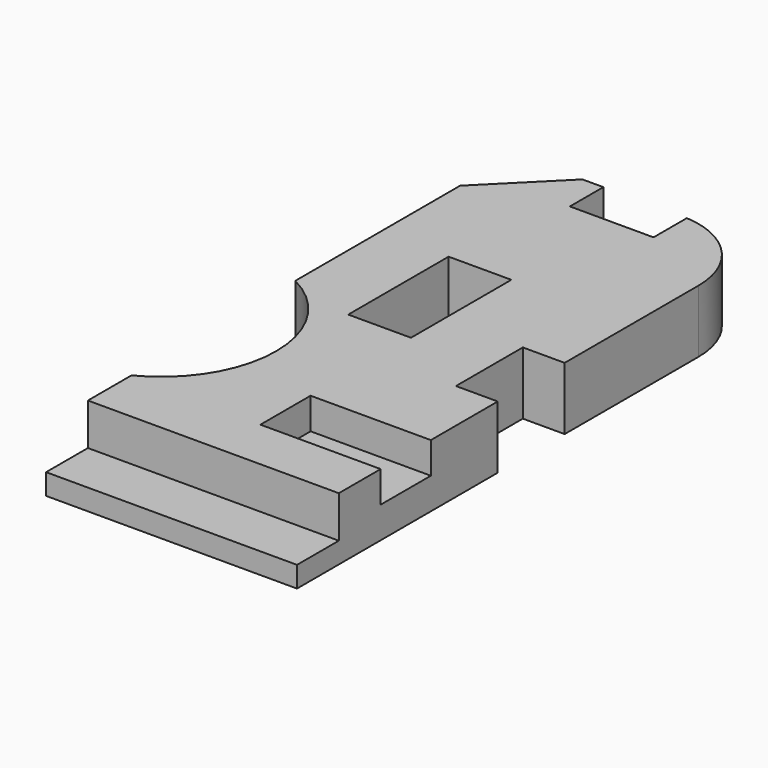
from build123d import *

# Parameters (mm, degrees)
F0_W      = 76.2
F0_H      = 177.8
F1_DEPTH  = 19.05
F2_R      = 25.4
F4_DEPTH  = 25.4
F6_DEPTH  = 25.4
F7_W      = 76.2
F7_H      = 15.875
F8_DEPTH  = 12.7
F9_W      = 36.5125
F9_H      = 19.05
F10_DEPTH = 9.525
F11_W     = 12.7
F11_H     = 25.4
F12_DEPTH = 25.4
F13_R     = 34.925
F14_DEPTH = 25.4
F15_W     = 19.05
F15_H     = 38.1
F16_DEPTH = 25.4


with BuildPart() as f1:
    # F0 (on Top) → F1 (new body)
    with BuildSketch(Plane.XY):
        with Locations((-43.904473, 16.184047)):
            Rectangle(F0_W, F0_H)
    extrude(amount=F1_DEPTH)

    # F2
    f2_edges = [f1.edges().sort_by_distance(p)[0] for p in [
        (-5.804473, 105.084047, 9.525),
    ]]
    fillet(f2_edges, radius=F2_R)

    # F3 (on face) → F4 (cut)
    with BuildSketch(Plane.XY.offset(19.05)):
        Polygon((-61.366973, 105.084047), (-82.004473, 105.084047), (-82.004473, 84.446547), align=None)
    extrude(amount=-F4_DEPTH, mode=Mode.SUBTRACT)

    # F5 (on face) → F6 (cut)
    with BuildSketch(Plane.XY.offset(19.05)):
        with BuildLine():
            Line((-31.204473, 105.084047), (-55.016973, 105.084047))
            Line((-55.016973, 105.084047), (-55.016973, 92.384047))
            Line((-55.016973, 92.384047), (-29.616973, 92.384047))
            Line((-29.616973, 92.384047), (-29.616973, 105.034389))
            ThreePointArc((-29.616973, 105.034389), (-30.410334, 105.071629), (-31.204473, 105.084047))
        make_face()
    extrude(amount=-F6_DEPTH, mode=Mode.SUBTRACT)

    # F7 (on face) → F8 (cut)
    with BuildSketch(Plane.XY.offset(19.05)):
        with Locations((-43.904473, -64.778453)):
            Rectangle(F7_W, F7_H)
    extrude(amount=-F8_DEPTH, mode=Mode.SUBTRACT)

    # F9 (on face) → F10 (cut)
    with BuildSketch(Plane.XY.offset(19.05)):
        with Locations((-24.060723, -31.440953)):
            Rectangle(F9_W, F9_H)
    extrude(amount=-F10_DEPTH, mode=Mode.SUBTRACT)

    # F11 (on face) → F12 (cut)
    with BuildSketch(Plane.XY.offset(19.05)):
        with Locations((-12.154473, 16.184047)):
            Rectangle(F11_W, F11_H)
    extrude(amount=-F12_DEPTH, mode=Mode.SUBTRACT)

    # F13 (on face) → F14 (cut)
    with BuildSketch(Plane.XY.offset(19.05)):
        with Locations((-97.879473, -9.215953)):
            Circle(F13_R)
    extrude(amount=-F14_DEPTH, mode=Mode.SUBTRACT)

    # F15 (on face) → F16 (cut)
    with BuildSketch(Plane.XY.offset(19.05)):
        with Locations((-51.841973, 35.234047)):
            Rectangle(F15_W, F15_H)
    extrude(amount=-F16_DEPTH, mode=Mode.SUBTRACT)


solid = f1.part
